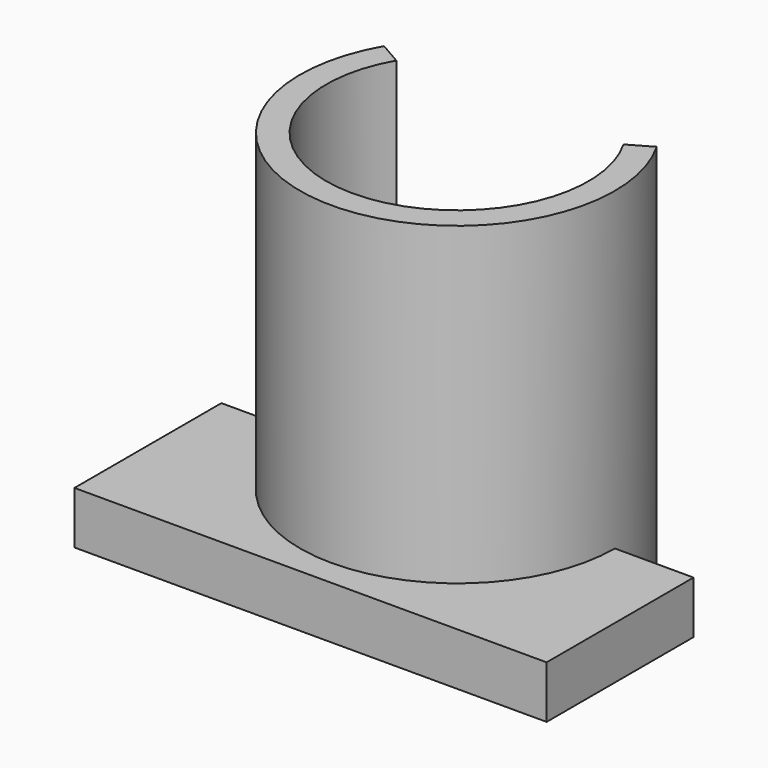
from build123d import *

# Parameters (mm, degrees)
F1_DEPTH = 35.56
F3_DEPTH = 5.08


with BuildPart() as f1:
    # F0 (on Top) → F1 (new body)
    with BuildSketch(Plane.XY):
        with BuildLine():
            ThreePointArc((10.998523, 6.35), (0, -12.7), (-10.998523, 6.35))
            Line((-10.998523, 6.35), (-13.198227, 7.62))
            ThreePointArc((-13.198227, 7.62), (0, -15.24), (13.198227, 7.62))
            Line((13.198227, 7.62), (10.998523, 6.35))
        make_face()
    extrude(amount=F1_DEPTH)

    # F2 (on Top) → F3 (join)
    with BuildSketch(Plane.XY):
        with BuildLine():
            Line((22.86, 0), (15.24, 0))
            ThreePointArc((15.24, 0), (0, -15.24), (-15.24, 0))
            Line((-15.24, 0), (-22.86, 0))
            Line((-22.86, 0), (-22.86, -17.78))
            Line((-22.86, -17.78), (0, -17.78))
            Line((0, -17.78), (22.86, -17.78))
            Line((22.86, -17.78), (22.86, 0))
        make_face()
    extrude(amount=F3_DEPTH)


solid = f1.part
